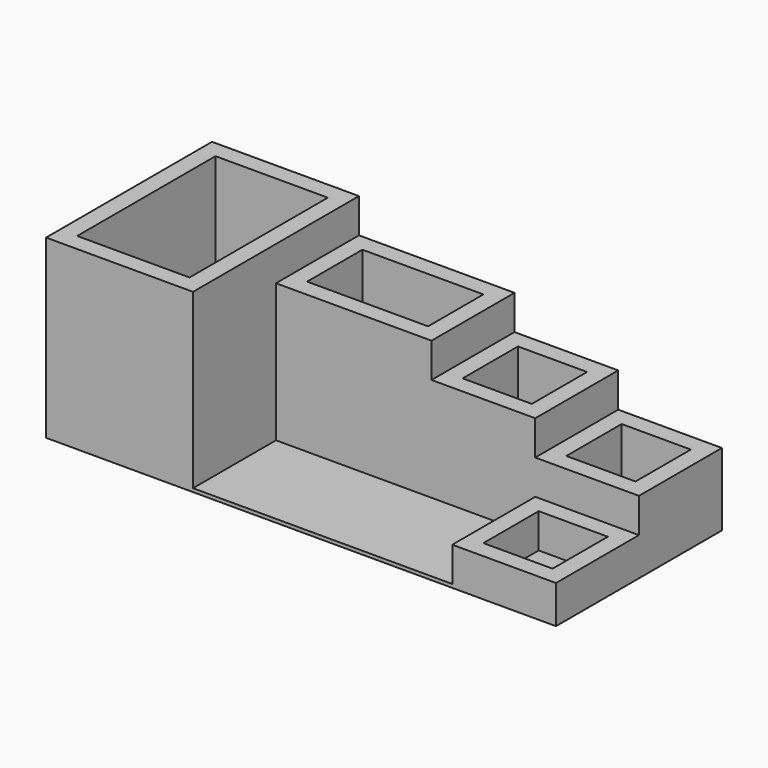
from build123d import *

# Parameters (mm, degrees)
F1_DEPTH  = 20
F2_W      = 600
F2_H      = 600
F2_W_2    = 400
F2_H_2    = 400
F3_DEPTH  = 400
F4_W      = 600
F4_H      = 600
F4_W_2    = 400
F4_H_2    = 400
F5_DEPTH  = 600
F6_W      = 900
F6_H      = 600
F6_W_2    = 700
F6_H_2    = 400
F7_DEPTH  = 800
F8_W      = 850
F8_H      = 1200
F8_W_2    = 650
F8_H_2    = 1000
F9_DEPTH  = 1000
F10_W     = 600
F10_H     = 600
F10_W_2   = 400
F10_H_2   = 400
F11_DEPTH = 200


with BuildPart() as f1:
    # F0 (on Top) → F1 (new body)
    with BuildSketch(Plane.XY):
        Polygon((-2563.636364, 0), (0, 0), (0, 1200), (-2950, 1200), (-2950, 0), align=None)
    extrude(amount=F1_DEPTH)

    # F2 (on face) → F3 (join)
    with BuildSketch(Plane.XY.offset(20)):
        with Locations((-300, 900)):
            Rectangle(F2_W, F2_H)
        with Locations((-300, 900)):
            Rectangle(F2_W_2, F2_H_2, mode=Mode.SUBTRACT)
    extrude(amount=F3_DEPTH)

    # F4 (on face) → F5 (join)
    with BuildSketch(Plane.XY.offset(20)):
        with Locations((-900, 900)):
            Rectangle(F4_W, F4_H)
        with Locations((-900, 900)):
            Rectangle(F4_W_2, F4_H_2, mode=Mode.SUBTRACT)
    extrude(amount=F5_DEPTH)

    # F6 (on face) → F7 (join)
    with BuildSketch(Plane.XY.offset(20)):
        with Locations((-1650, 900)):
            Rectangle(F6_W, F6_H)
        with Locations((-1650, 900)):
            Rectangle(F6_W_2, F6_H_2, mode=Mode.SUBTRACT)
    extrude(amount=F7_DEPTH)

    # F8 (on face) → F9 (join)
    with BuildSketch(Plane.XY.offset(20)):
        with Locations((-2525, 600)):
            Rectangle(F8_W, F8_H)
        with Locations((-2525, 600)):
            Rectangle(F8_W_2, F8_H_2, mode=Mode.SUBTRACT)
    extrude(amount=F9_DEPTH)

    # F10 (on face) → F11 (join)
    with BuildSketch(Plane.XY.offset(20)):
        with Locations((-300, 300)):
            Rectangle(F10_W, F10_H)
        with Locations((-300, 300)):
            Rectangle(F10_W_2, F10_H_2, mode=Mode.SUBTRACT)
    extrude(amount=F11_DEPTH)


solid = f1.part
